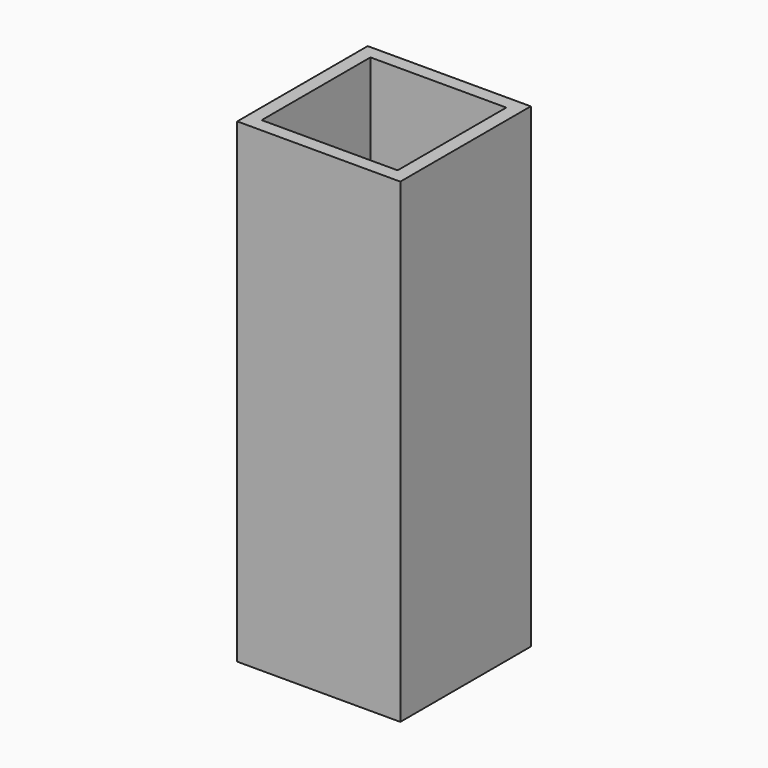
from build123d import *

# Parameters (mm, degrees)
F0_W     = 24
F0_H     = 70
F1_DEPTH = 24
F2_T     = -2
F3_R     = 2.85
F4_DEPTH = 3


with BuildPart() as f1:
    # F0 (on Front) → F1 (new body)
    with BuildSketch(Plane.XZ):
        with Locations((12, 35)):
            Rectangle(F0_W, F0_H)
    extrude(amount=F1_DEPTH)

    # F2
    f2_openings = [f1.faces().sort_by_distance(p)[0] for p in [
        (12, -12, 70),
        (12, -12, 0),
    ]]
    offset(amount=F2_T, openings=f2_openings)

    # F3 (on Front) → F4 (cut)
    with BuildSketch(Plane.XZ):
        with Locations((12, 57.445619)):
            Circle(F3_R)
    extrude(amount=F4_DEPTH, mode=Mode.SUBTRACT)


solid = f1.part
